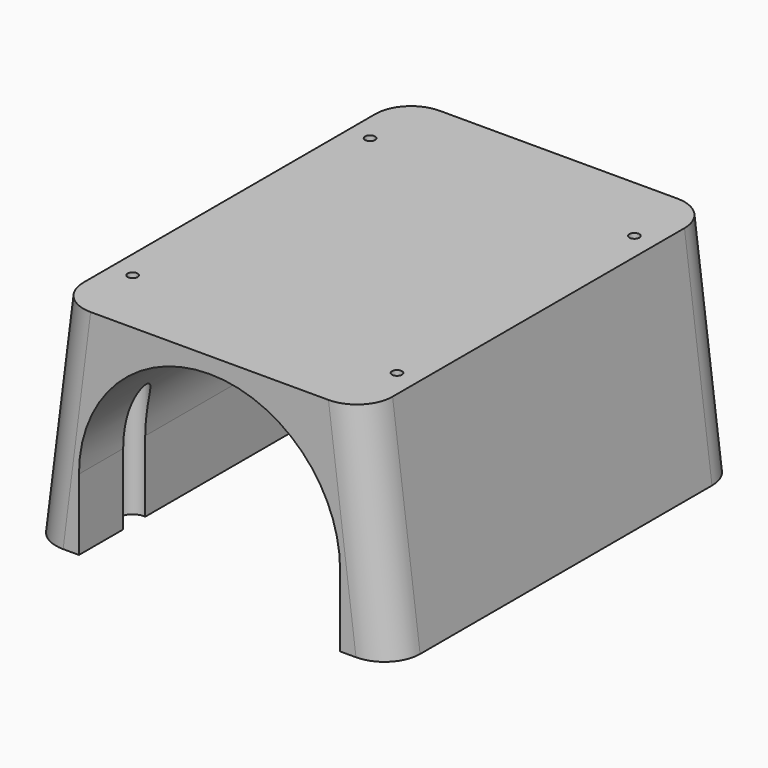
from build123d import *

# Parameters (mm, degrees)
POCKET_DEPTH    = 110.201
SKETCH003_R     = 1.95
POCKET001_DEPTH = 30
SKETCH004_R     = 1.25
POCKET002_DEPTH = 55.001
SKETCH005_R     = 3.5
POCKET003_DEPTH = 50


with BuildPart() as part:
    # Sketch → Loft section 0
    with BuildSketch(Plane.XY):
        with BuildLine():
            Line((-37, 55.1), (37, 55.1))
            ThreePointArc((46, 46.1), (43.363961, 52.463961), (37, 55.1))
            Line((46, 46.1), (46, -46.1))
            ThreePointArc((37, -55.1), (43.363961, -52.463961), (46, -46.1))
            Line((37, -55.1), (-37, -55.1))
            ThreePointArc((-46, -46.1), (-43.363961, -52.463961), (-37, -55.1))
            Line((-46, -46.1), (-46, 46.1))
            ThreePointArc((-37, 55.1), (-43.363961, 52.463961), (-46, 46.1))
        make_face()
    # Sketch001 → Loft section 1
    with BuildSketch(Plane.XY.offset(55)):
        with BuildLine():
            Line((-30.05, 55.1), (30.05, 55.1))
            ThreePointArc((39.05, 46.1), (36.413961, 52.463961), (30.05, 55.1))
            Line((39.05, 46.1), (39.05, -46.1))
            ThreePointArc((30.05, -55.1), (36.413961, -52.463961), (39.05, -46.1))
            Line((30.05, -55.1), (-30.05, -55.1))
            ThreePointArc((-39.05, -46.1), (-36.413961, -52.463961), (-30.05, -55.1))
            Line((-39.05, -46.1), (-39.05, 46.1))
            ThreePointArc((-30.05, 55.1), (-36.413961, 52.463961), (-39.05, 46.1))
        make_face()
    loft()

    # Sketch002 (on Face5 of BaseFeature) → Pocket (cut, through all)
    with BuildSketch(Plane.XZ.offset(55.1)):
        with BuildLine():
            Line((33, 18), (33, 0))
            Line((33, 0), (-33, 0))
            Line((-33, 0), (-33, 18))
            ThreePointArc((33, 18), (0, 51), (-33, 18))
        make_face()
    extrude(amount=-POCKET_DEPTH, mode=Mode.SUBTRACT)

    # Sketch003 (on Face5 of Pocket) → Pocket001 (cut)
    with BuildSketch(Plane(origin=(0, 0, 0), x_dir=(1, 0, 0), z_dir=(0, 0, -1))):
        with Locations((-37.95, 41.3)):
            Circle(SKETCH003_R)
        with Locations((-37.95, -41.3)):
            Circle(SKETCH003_R)
        with Locations((37.95, -41.3)):
            Circle(SKETCH003_R)
        with Locations((37.95, 41.3)):
            Circle(SKETCH003_R)
    extrude(amount=-POCKET001_DEPTH, mode=Mode.SUBTRACT)

    # Sketch004 (on Face3 of Pocket001) → Pocket002 (cut, through all)
    with BuildSketch(Plane.XY.offset(55)):
        with Locations((-33.4, 37.35)):
            Circle(SKETCH004_R)
        with Locations((33.4, 37.35)):
            Circle(SKETCH004_R)
        with Locations((33.4, -37.65)):
            Circle(SKETCH004_R)
        with Locations((-33.4, -37.65)):
            Circle(SKETCH004_R)
    extrude(amount=-POCKET002_DEPTH, mode=Mode.SUBTRACT)

    # Sketch005 (on Face9 of Pocket002) → Pocket003 (cut)
    with BuildSketch(Plane(origin=(0, 0, 0), x_dir=(1, 0, 0), z_dir=(0, 0, -1))):
        with Locations((-33.4, -37.35)):
            Circle(SKETCH005_R)
        with Locations((33.4, -37.35)):
            Circle(SKETCH005_R)
        with Locations((-33.4, 37.65)):
            Circle(SKETCH005_R)
        with Locations((33.4, 37.65)):
            Circle(SKETCH005_R)
    extrude(amount=-POCKET003_DEPTH, mode=Mode.SUBTRACT)


solid = part.part
